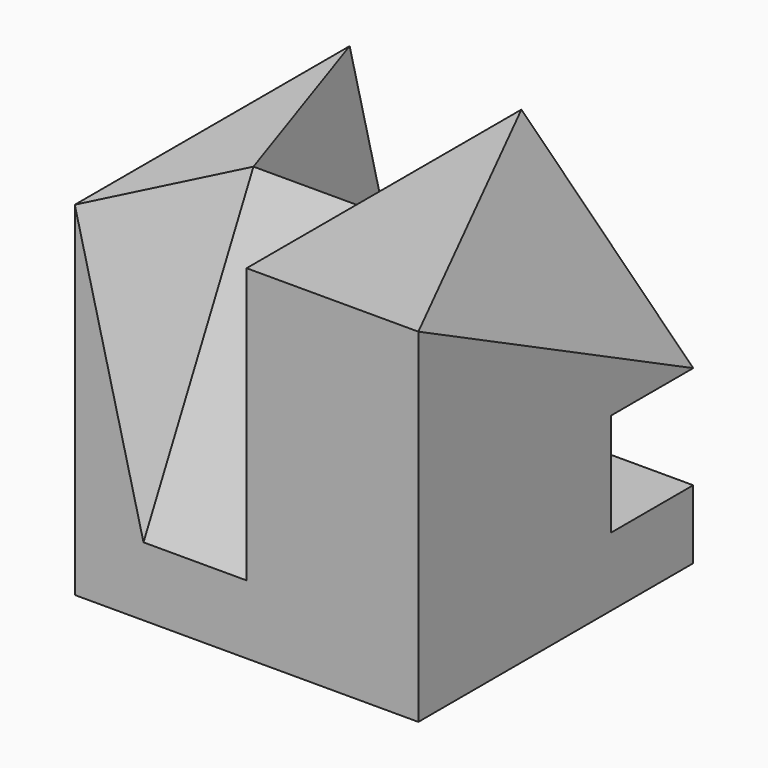
from build123d import *

# Parameters (mm, degrees)
F0_W     = 50
F0_H     = 50
F1_DEPTH = 50
F3_DEPTH = 15
F8_W     = 15
F8_H     = 40
F10_W    = 15
F10_H    = 40


with BuildPart() as f1:
    # F0 (on Top) → F1 (new body)
    with BuildSketch(Plane.XY):
        with Locations((25, 25)):
            Rectangle(F0_W, F0_H)
    extrude(amount=F1_DEPTH)

    # F2 (on face) → F3 (cut)
    with BuildSketch(Plane(origin=(0, 50, 0), x_dir=(-1, 0, 0), z_dir=(0, 1, 0))):
        Polygon((-50, 25), (-50, 10), (-30, 10), align=None)
    extrude(amount=-F3_DEPTH, mode=Mode.SUBTRACT)

    # F6: sweep along a path in F5
    with BuildLine(Plane(origin=(0, 50, 0), x_dir=(-1, 0, 0), z_dir=(0, 1, 0))) as f6_path:
        Line((-50, 25), (-25, 50))
    # F4 (on face) → F6 (sweep, cut)
    with BuildSketch(Plane.YZ.offset(50)):
        Polygon((50, 50), (0, 50), (50, 25), align=None)
    sweep(path=f6_path.line, mode=Mode.SUBTRACT)

    # F9: sweep along a path in F7
    with BuildLine(Plane(origin=(0, 0, 0), x_dir=(0, -1, 0), z_dir=(-1, 0, 0))) as f9_path:
        Line((-20, 50), (0, 10))
    # F8 (on face) → F9 (sweep, cut)
    with BuildSketch(Plane.XZ):
        with Locations((17.5, 30)):
            Rectangle(F8_W, F8_H)
    sweep(path=f9_path.line, mode=Mode.SUBTRACT)

    # F11: sweep along a path in F7
    with BuildLine(Plane(origin=(0, 0, 0), x_dir=(0, -1, 0), z_dir=(-1, 0, 0))) as f11_path:
        Line((-50, 10), (-20, 50))
    # F10 (on face) → F11 (sweep, cut)
    with BuildSketch(Plane(origin=(0, 50, 0), x_dir=(-1, 0, 0), z_dir=(0, 1, 0))):
        with Locations((-17.5, 30)):
            Rectangle(F10_W, F10_H)
    sweep(path=f11_path.line, mode=Mode.SUBTRACT)

    # F13: sweep along a path in F12
    with BuildLine(Plane.XY.offset(50)) as f13_path:
        Line((10, 20), (0, 0))
    # F9_face (on face) → F13 (sweep, cut)
    with BuildSketch(Plane(origin=(10, 6.6666666667, 36.6666666667), x_dir=(0, 1, 0), z_dir=(1, 0, 0))):
        Polygon((-6.6666666667, 13.3333333333), (-6.6666666667, -26.6666666667), (13.3333333333, 13.3333333333), align=None)
    sweep(path=f13_path.line, mode=Mode.SUBTRACT)

    # F15: sweep along a path in F14
    with BuildLine(Plane.XY.offset(50)) as f15_path:
        Line((10, 20), (0, 50))
    # F11_face1 (on face) → F15 (sweep, cut)
    with BuildSketch(Plane(origin=(10, 40, 36.6666666667), x_dir=(0, 1, 0), z_dir=(1, 0, 0))):
        Polygon((-20, 13.3333333333), (10, -26.6666666667), (10, 13.3333333333), align=None)
    sweep(path=f15_path.line, mode=Mode.SUBTRACT)


solid = f1.part
